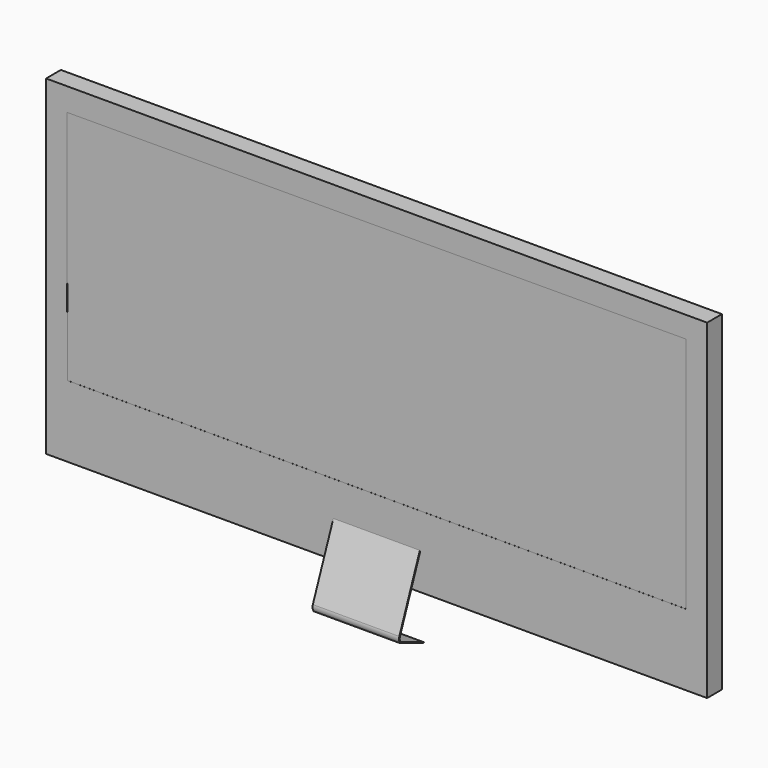
from build123d import *

# Parameters (mm, degrees)
F1_DEPTH = 4.318
F0_W     = 609.6
F0_H     = 304.8
F2_DEPTH = 12.7
F3_DEPTH = 8.3312
F4_DEPTH = 8.382
F6_DEPTH = 39.878


with BuildPart() as f1:
    # F0 (on Front) → F1 (new body, symmetric)
    with BuildSketch(Plane.XZ):
        Polygon((-285.1792275906, -86.4414721727), (285.1792275906, -86.4414721727), (285.1792275906, 132.7209819259), (-285.5631413485, 131.1443544394), align=None)
    extrude(amount=F1_DEPTH, both=True)

    # F0 (on Front) → F2 (join, symmetric)
    with BuildSketch(Plane.XZ):
        Rectangle(F0_W, F0_H)
        Polygon((285.1792275906, 132.7209819259), (285.1792275906, -86.4414721727), (-285.1792275906, -86.4414721727), (-285.5631413485, 131.1443544394), align=None, mode=Mode.SUBTRACT)
    extrude(amount=F2_DEPTH, both=True)

    # F3 (cut): a face of the model
    f3_faces = [f1.faces().sort_by_distance(p)[0] for p in [
        (297.9844648046, -12.7, 0),
    ]]
    extrude(f3_faces, amount=-F3_DEPTH, mode=Mode.SUBTRACT)


with BuildPart() as f4:
    # F4 (new): a face of the model
    f4_faces = [f1.part.faces().sort_by_distance(p)[0] for p in [
        (0.2471686535, 4.318, 22.7583613487),
    ]]
    extrude(f4_faces, amount=F4_DEPTH)


with BuildPart() as f1_1:
    add(f1.part)

    # F5 (on Right) → F6 (join, symmetric)
    with BuildSketch(Plane.YZ):
        with BuildLine():
            Line((0, -109.7471565008), (0, -107.5203344226))
            Line((0, -107.5203344226), (-28.0267206721, -178.9073424662))
            ThreePointArc((-28.0267206721, -178.9073424662), (-28.2410996519, -181.9832667196), (-27.0239166401, -184.8162393413))
            Line((-27.0239166401, -184.8162393413), (0, -195.4258976517))
            Line((0, -195.4258976517), (0.1690124443, -194.9954051633))
            Line((0.1690124443, -194.9954051633), (-26.4292042702, -184.0078085661))
            ThreePointArc((-26.4292042702, -184.0078085661), (-27.5110799229, -181.6896526117), (-27.245869266, -179.1452538096))
            Line((-27.245869266, -179.1452538096), (0, -109.7471565008))
        make_face()
    extrude(amount=F6_DEPTH, both=True)


solid = Compound([f4.part, f1_1.part])
